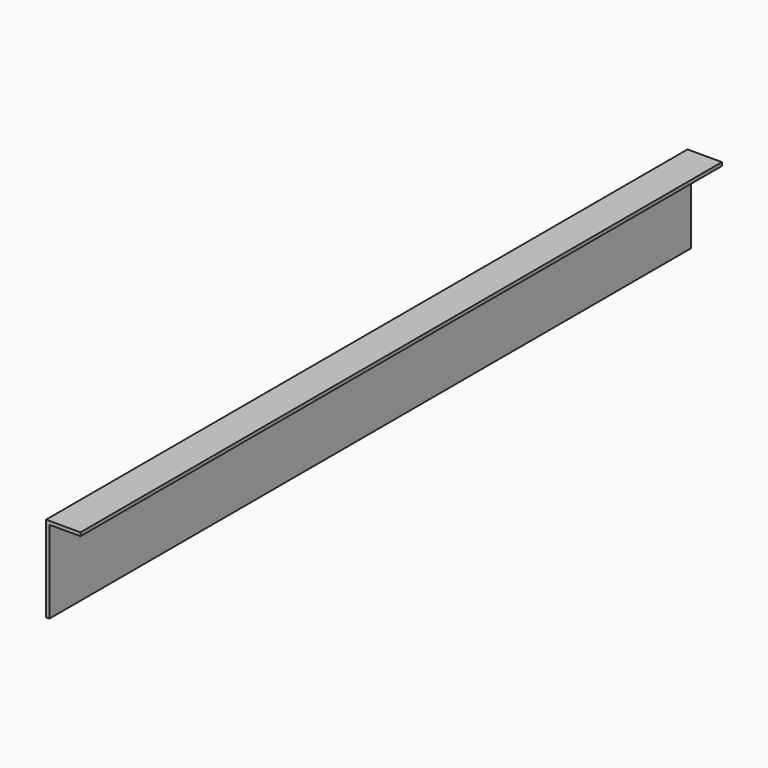
from build123d import *

# Parameters (mm, degrees)
PAD_DEPTH = 233


with BuildPart() as part:
    # Sketch → Pad (new body)
    with BuildSketch(Plane.XZ):
        Polygon((9, 0), (0, 0), (0, -24), (-1, -24), (-1, 1), (9, 1), align=None)
    extrude(amount=PAD_DEPTH)


solid = part.part
